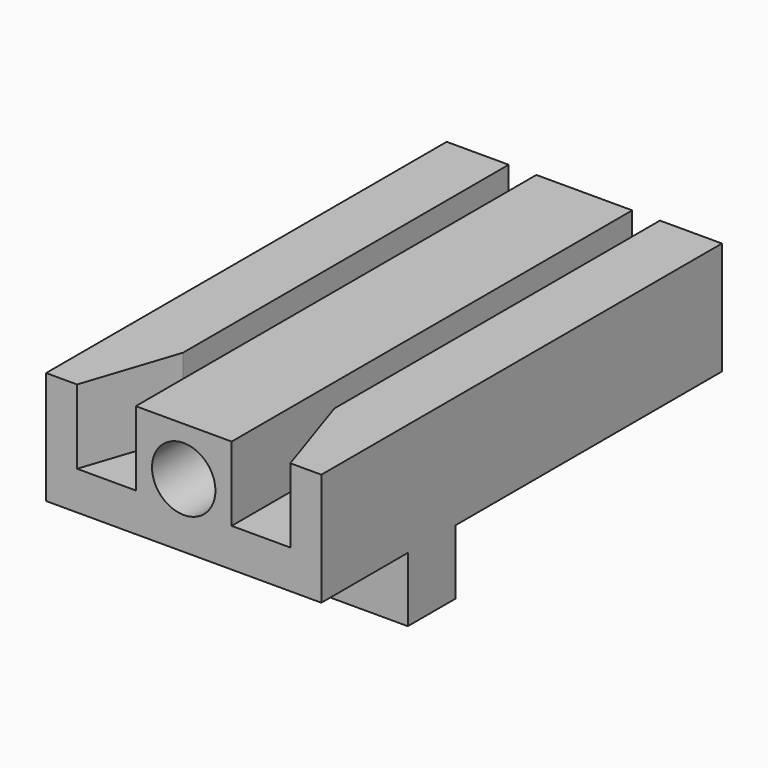
from build123d import *

# Parameters (mm, degrees)
F1_DEPTH = 50
F2_W     = 54.9705848098
F2_H     = 21.5882334858
F2_H_2   = 66.4705887437
F3_DEPTH = 12.9
F5_DEPTH = 14.8235308006
F6_R     = 6.3346465425
F7_DEPTH = 114.6
F8_R     = 6.3346465425
F9_DEPTH = 21.4


with BuildPart() as f1:
    # F0 (on Front) → F1 (new body, symmetric)
    with BuildSketch(Plane.XZ):
        Polygon((15.1010118425, 25.1176496968), (15.1010118425, 10.2941188961), (9.5735294744, 10.2941188961), (9.5735294744, 25.1176496968), (-9.5735294744, 25.1176496968), (-9.5735294744, 10.2941188961), (-15.1010118425, 10.2941188961), (-15.1010118425, 25.1176496968), (-27.4852924049, 25.1176496968), (-27.4852924049, 10.2941188961), (-27.4852924049, -10.2941188961), (-15.1010118425, -10.2941188961), (27.4852924049, -10.2941188961), (27.4852924049, 10.2941188961), (27.4852924049, 25.1176496968), align=None)
    extrude(amount=F1_DEPTH, both=True)

    # F2 (on face) → F3 (cut)
    with BuildSketch(Plane(origin=(0, 0, -10.2941188961), x_dir=(1, 0, 0), z_dir=(0, 0, -1))):
        with Locations((0, 39.2058832571)):
            Rectangle(F2_W, F2_H)
        with Locations((0, -16.7647056282)):
            Rectangle(F2_W, F2_H_2)
    extrude(amount=-F3_DEPTH, mode=Mode.SUBTRACT)

    # F4 (on face) → F5 (cut, through all)
    with BuildSketch(Plane.XY.offset(25.1176496968)):
        Polygon((-15.1010118425, -31.294118613), (-21.2931521237, -50), (-15.1010118425, -50), align=None)
        Polygon((15.1010118425, -50), (21.2931521237, -50), (15.1010118425, -31.294118613), align=None)
    extrude(amount=-F5_DEPTH, mode=Mode.SUBTRACT)

    # F6 (on face) → F7 (cut)
    with BuildSketch(Plane.XZ.offset(50)):
        with Locations((0, 15.4228592291)):
            Circle(F6_R)
    extrude(amount=-F7_DEPTH, mode=Mode.SUBTRACT)


with BuildPart() as f9:
    # F8 (on face) → F9 (new body)
    with BuildSketch(Plane(origin=(0, 50, 0), x_dir=(-1, 0, 0), z_dir=(0, 1, 0))):
        with Locations((0, 15.4228592291)):
            Circle(F8_R)
    extrude(amount=-F9_DEPTH)


solid = Compound([f1.part, f9.part])
